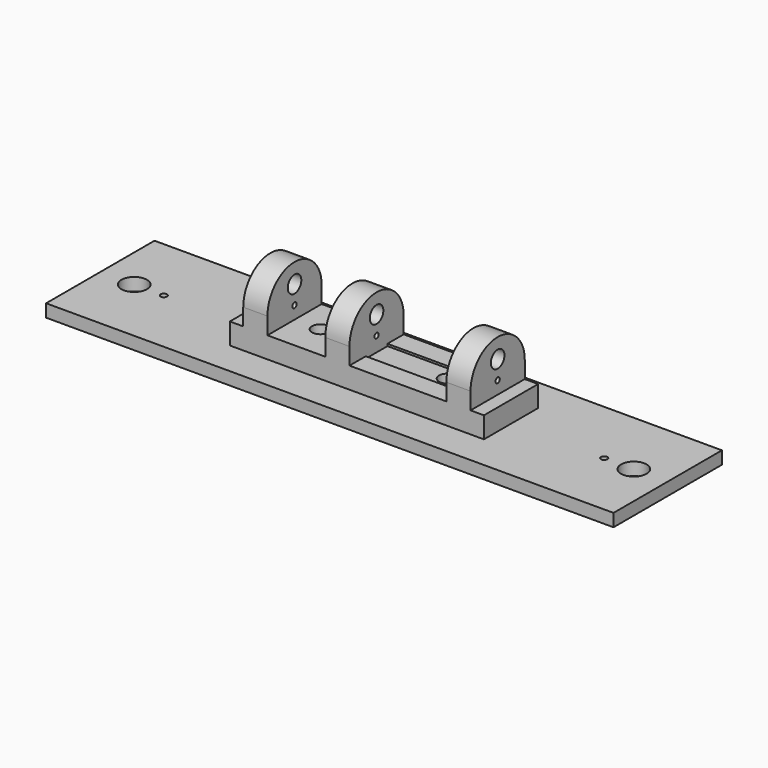
from build123d import *

# Parameters (mm, degrees)
F0_W          = 212.725
F0_H          = 50.8
F0_R          = 4.7879
F0_R_2        = 1.190625
F0_R_3        = 3.175
F1_DEPTH      = 4.7625
F3_DEPTH      = 47.625
F3_DEPTH_BACK = 47.625
F5_W          = 5.0165
F5_H          = 25.4
F5_W_2        = 21.6916
F5_W_3        = 36.322
F6_DEPTH      = 25.4
F7_R          = 3.175
F8_DEPTH      = 25.4
F9_W          = 31.6738
F9_H          = 10.16
F10_DEPTH     = 0.79375
F11_R         = 3.175
F11_R_2       = 0.992188
F12_DEPTH     = 148.972


with BuildPart() as f1:
    # F0 (on Top) → F1 (new body)
    with BuildSketch(Plane.XY):
        Rectangle(F0_W, F0_H)
        with Locations((-93.6625, 0)):
            Circle(F0_R, mode=Mode.SUBTRACT)
        with Locations((-82.55, 0)):
            Circle(F0_R_2, mode=Mode.SUBTRACT)
        with Locations((-23.8125, 0)):
            Circle(F0_R_3, mode=Mode.SUBTRACT)
        with Locations((23.8125, 0)):
            Circle(F0_R_3, mode=Mode.SUBTRACT)
        with Locations((82.55, 0)):
            Circle(F0_R_2, mode=Mode.SUBTRACT)
        with Locations((93.6625, 0)):
            Circle(F0_R, mode=Mode.SUBTRACT)
    extrude(amount=F1_DEPTH)


with BuildPart() as f3:
    # F2 (on Right) → F3 (new body, two sides)
    with BuildSketch(Plane.YZ) as f3_sk:
        with BuildLine():
            Line((-12.7, 19.05), (-12.7, 4.7625))
            Line((-12.7, 4.7625), (12.7, 4.7625))
            Line((12.7, 4.7625), (12.7, 19.05))
            ThreePointArc((12.7, 19.05), (0, 31.75), (-12.7, 19.05))
        make_face()
    extrude(amount=F3_DEPTH)
    extrude(f3_sk.sketch, amount=-F3_DEPTH_BACK)

    # F5 (on offset) → F6 (cut)
    with BuildSketch(Plane.XY.offset(12.7)):
        with Locations((-45.11675, 0)):
            Rectangle(F5_W, F5_H)
        with Locations((-22.6949, 0)):
            Rectangle(F5_W_2, F5_H)
        with Locations((15.3797, 0)):
            Rectangle(F5_W_3, F5_H)
        with Locations((45.11675, 0)):
            Rectangle(F5_W, F5_H)
    extrude(amount=F6_DEPTH, mode=Mode.SUBTRACT)

    # F7 (on face) → F8 (cut)
    with BuildSketch(Plane(origin=(0, 0, 4.7625), x_dir=(1, 0, 0), z_dir=(0, 0, -1))):
        with Locations((-23.8125, 0)):
            Circle(F7_R)
        with Locations((23.8125, 0)):
            Circle(F7_R)
    extrude(amount=-F8_DEPTH, mode=Mode.SUBTRACT)

    # F9 (on face) → F10 (cut)
    with BuildSketch(Plane.XY.offset(12.7)):
        with Locations((13.0556, 0)):
            Rectangle(F9_W, F9_H)
    extrude(amount=-F10_DEPTH, mode=Mode.SUBTRACT)

    # F11 (on face) → F12 (cut, through all)
    with BuildSketch(Plane.YZ.offset(42.6085)):
        with Locations((0, 24.4475)):
            Circle(F11_R)
        with Locations((0, 17.4625)):
            Circle(F11_R_2)
    extrude(amount=-F12_DEPTH, mode=Mode.SUBTRACT)


solid = Compound([f1.part, f3.part])
